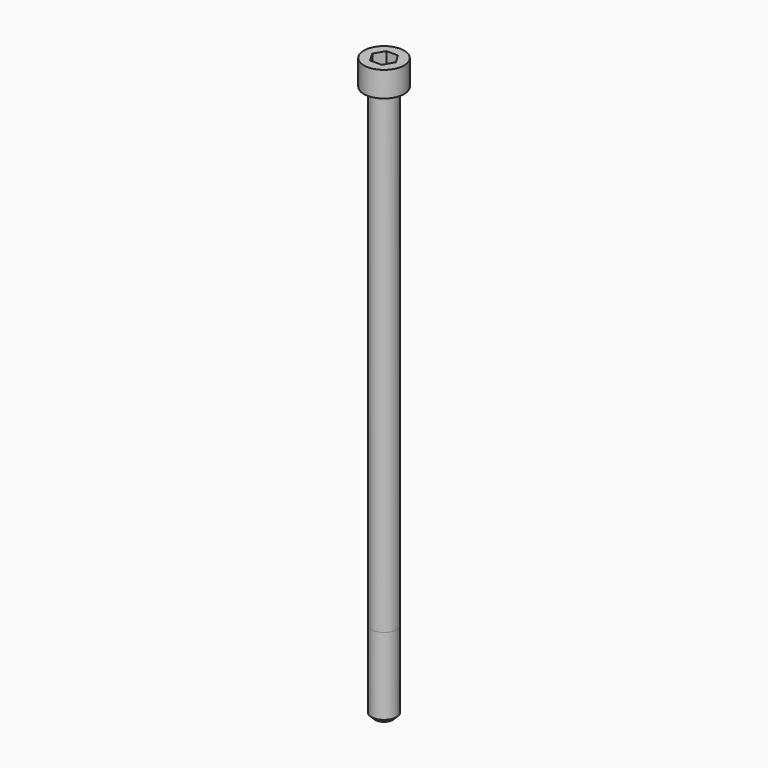
from build123d import *

# Parameters (mm, degrees)
POCKET_DEPTH = 8.07


with BuildPart() as part:
    # Sketch → Revolve (revolve)
    with BuildSketch(Plane.YZ):
        with BuildLine():
            Line((4.999, 0), (8, 0))
            Line((8, 0), (8, 9.97229))
            ThreePointArc((8, 9.97229), (7.991884, 9.991884), (7.97229, 10))
            Line((7.97229, 10), (0, 10))
            Line((0, -220), (0, 10))
            Line((3.5, -220), (0, -220))
            Line((5, -218.5), (3.5, -220))
            Line((5, -188), (5, -218.5))
            Line((4.999, 0), (5, -188))
        make_face()
    revolve(axis=Axis((0, 0, 0), (0, 0, 1)))

    # Sketch001 → Pocket (cut)
    with BuildSketch(Plane.XY.offset(10)):
        Polygon((4.659217, 0), (2.329608, 4.035), (-2.329608, 4.035), (-4.659217, 0), (-2.329608, -4.035), (2.329608, -4.035), align=None)
    extrude(amount=-POCKET_DEPTH, mode=Mode.SUBTRACT)


solid = part.part
